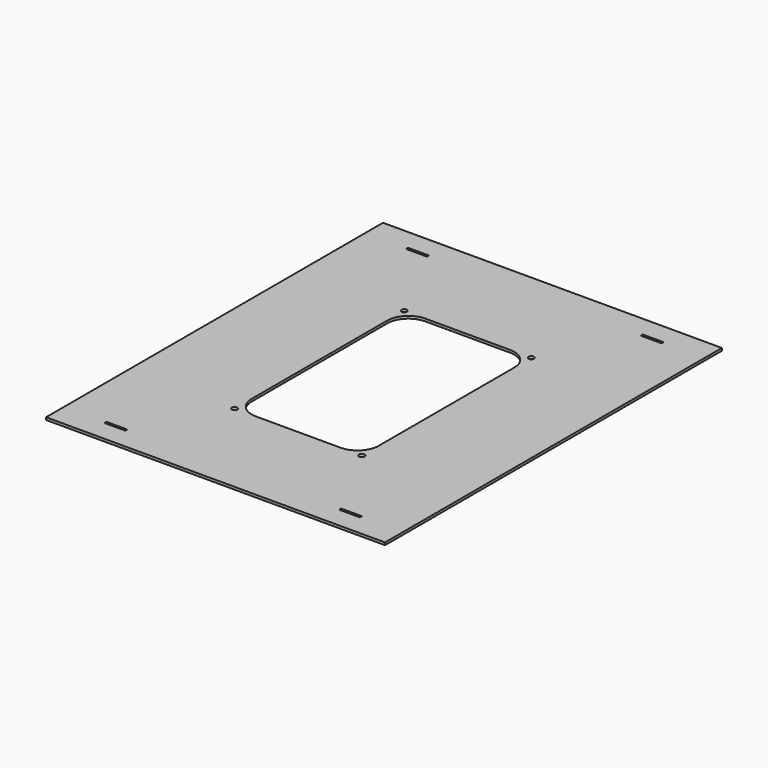
from build123d import *

# Parameters (mm, degrees)
F0_W     = 406.4
F0_H     = 505
F1_DEPTH = 3
F3_D     = 6.6
F4_DEPTH = 25
F5_W     = 25
F5_H     = 3
F6_DEPTH = 25


with BuildPart() as f1:
    # F0 (on Top) → F1 (new body)
    with BuildSketch(Plane.XY):
        with Locations((-38.4776114106, 56.445750549)):
            Rectangle(F0_W, F0_H)
    extrude(amount=F1_DEPTH)

    # F3 (through all)
    with Locations(Plane.XY.offset(3)):
        with Locations((-114.6776114106, 181.945750549), (37.7223885894, 181.945750549), (37.7223885894, -72.054249451), (-114.6776114106, -72.054249451)):
            Hole(F3_D / 2)

    # F2 (on face) → F4 (cut)
    with BuildSketch(Plane.XY.offset(3)):
        with BuildLine():
            Line((12.3223885894, 181.945750549), (-89.2776114106, 181.945750549))
            ThreePointArc((-89.2776114106, 181.945750549), (-107.2381236528, 174.5062627912), (-114.6776114106, 156.545750549))
            Line((-114.6776114106, 156.545750549), (-114.6776114106, -46.654249451))
            ThreePointArc((-114.6776114106, -46.654249451), (-107.2381236528, -64.6147616931), (-89.2776114106, -72.054249451))
            Line((-89.2776114106, -72.054249451), (12.3223885894, -72.054249451))
            ThreePointArc((12.3223885894, -72.054249451), (30.2829008315, -64.6147616931), (37.7223885894, -46.654249451))
            Line((37.7223885894, -46.654249451), (37.7223885894, 156.545750549))
            ThreePointArc((37.7223885894, 156.545750549), (30.2829008315, 174.5062627912), (12.3223885894, 181.945750549))
        make_face()
    extrude(amount=-F4_DEPTH, mode=Mode.SUBTRACT)

    # F5 (on face) → F6 (cut)
    with BuildSketch(Plane.XY.offset(3)):
        with Locations((-179.1776114106, 282.445750549)):
            Rectangle(F5_W, F5_H)
        with Locations((102.2223885894, 282.445750549)):
            Rectangle(F5_W, F5_H)
        with Locations((102.2223885894, -169.554249451)):
            Rectangle(F5_W, F5_H)
        with Locations((-179.1776114106, -169.554249451)):
            Rectangle(F5_W, F5_H)
    extrude(amount=-F6_DEPTH, mode=Mode.SUBTRACT)


solid = f1.part
